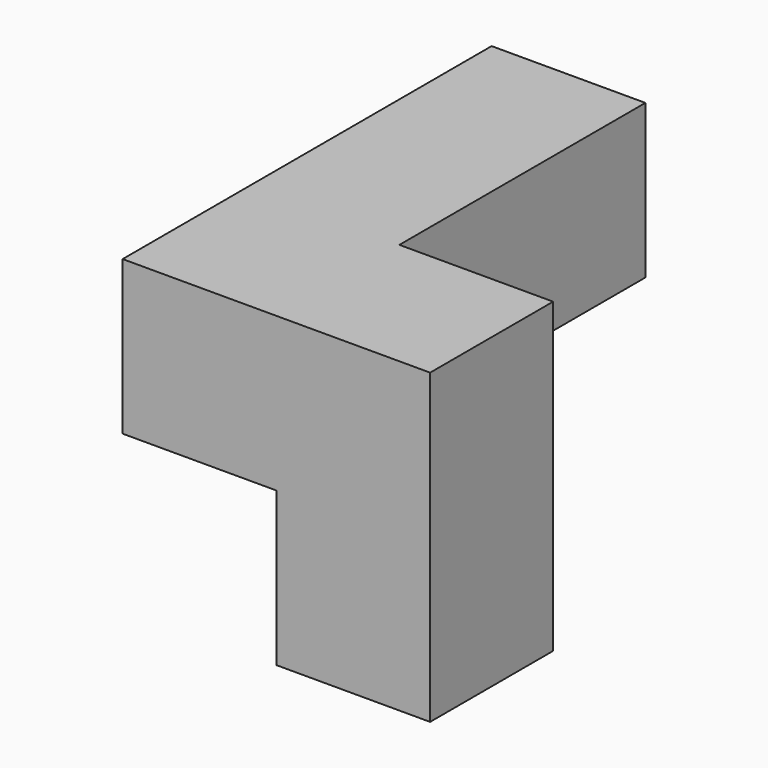
from build123d import *

# Parameters (mm, degrees)
F0_W     = 19.05
F0_H     = 19.05
F1_DEPTH = 19.05
F2_DEPTH = 19.05
F3_W     = 19.05
F3_H     = 19.05
F4_DEPTH = 19.05
F5_W     = 19.05
F5_H     = 19.05
F6_DEPTH = 19.05
F7_DEPTH = 19.05


with BuildPart() as f1:
    # F0 (on Top) → F1 (new body)
    with BuildSketch(Plane.XY):
        with Locations((9.525, 9.525)):
            Rectangle(F0_W, F0_H)
    extrude(amount=F1_DEPTH)

    # F2 (add): a face of the model
    f2_faces = [f1.faces().sort_by_distance(p)[0] for p in [
        (9.525, 9.525, 19.05),
    ]]
    extrude(f2_faces, amount=F2_DEPTH)

    # F3 (on face) → F4 (join)
    with BuildSketch(Plane(origin=(0, 0, 0), x_dir=(0, -1, 0), z_dir=(-1, 0, 0))):
        with Locations((-9.525, 28.575)):
            Rectangle(F3_W, F3_H)
    extrude(amount=F4_DEPTH)

    # F5 (on face) → F6 (join)
    with BuildSketch(Plane(origin=(0, 19.05, 0), x_dir=(-1, 0, 0), z_dir=(0, 1, 0))):
        with Locations((9.525, 28.575)):
            Rectangle(F5_W, F5_H)
    extrude(amount=F6_DEPTH)

    # F7 (add): a face of the model
    f7_faces = [f1.faces().sort_by_distance(p)[0] for p in [
        (-9.525, 38.1, 28.575),
    ]]
    extrude(f7_faces, amount=F7_DEPTH)


solid = f1.part
